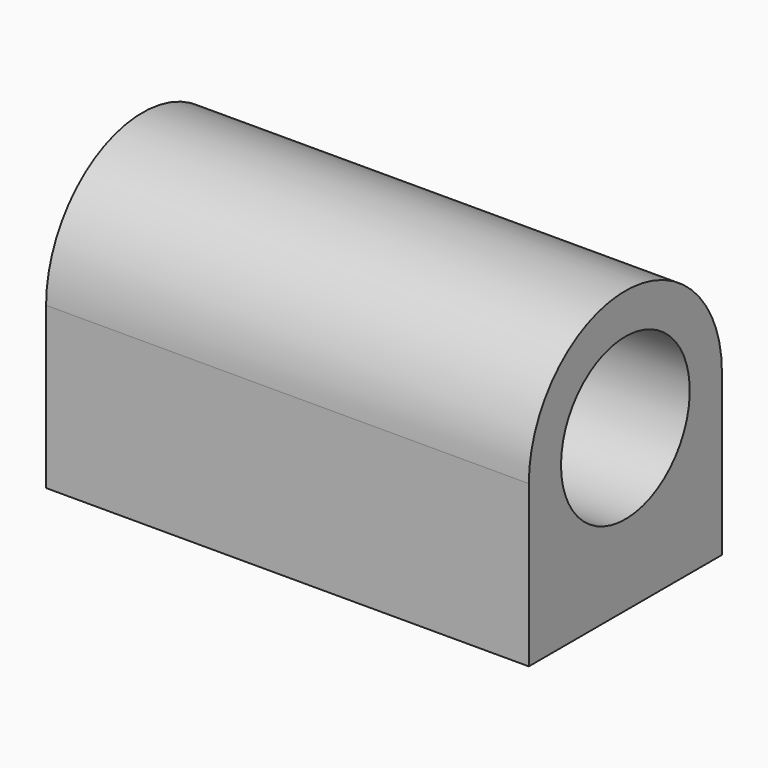
from build123d import *

# Parameters (mm, degrees)
F1_DEPTH = 76.2
F3_D     = 3.302
F3_DEPTH = 12.7
F3_TIP   = 0.992020882


with BuildPart() as f1:
    # F0 (on Right) → F1 (new body)
    with BuildSketch(Plane.YZ):
        with BuildLine():
            Line((-19.05, 0), (-19.05, -25.4))
            Line((-19.05, -25.4), (19.05, -25.4))
            Line((19.05, -25.4), (19.05, 0))
            ThreePointArc((19.05, 0), (0, 19.05), (-19.05, 0))
        make_face()
        with BuildLine():
            ThreePointArc((12.7, 0), (0, -12.7), (-12.7, 0))
            ThreePointArc((-12.7, 0), (0, 12.7), (12.7, 0))
        make_face(mode=Mode.SUBTRACT)
    extrude(amount=F1_DEPTH)

    # F3
    with Locations(Plane(origin=(0, 0, -25.4), x_dir=(1, 0, 0), z_dir=(0, 0, -1))):
        with Locations((6.35, 12.7), (6.35, -12.7), (69.85, -12.7), (69.85, 12.7)):
            Hole(F3_D / 2, depth=F3_DEPTH)
            with Locations((0, 0, -(F3_DEPTH + F3_TIP / 2))):  # 118° drill point
                Cone(0, F3_D / 2, F3_TIP, mode=Mode.SUBTRACT)


solid = f1.part
